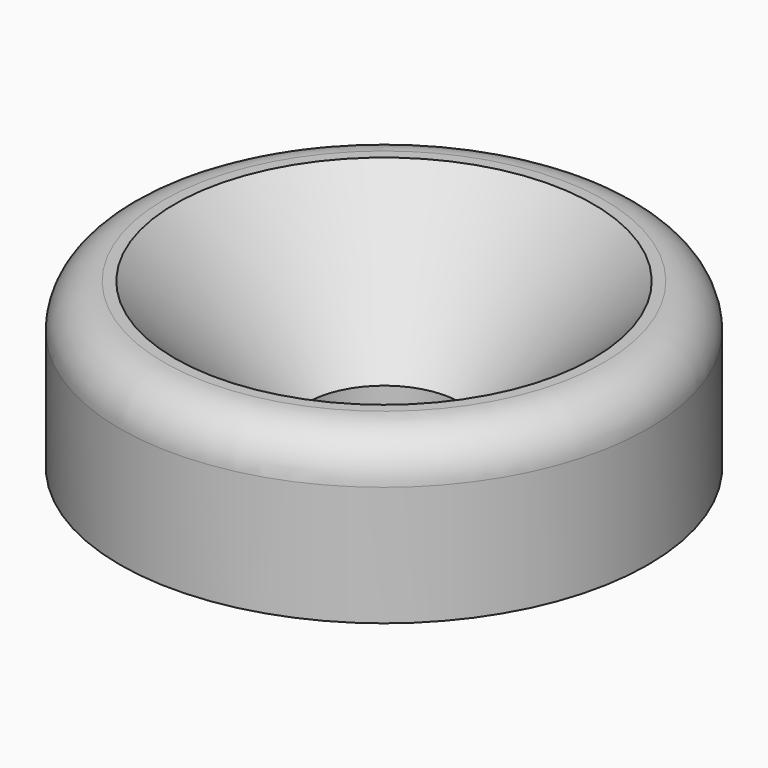
from build123d import *

# Parameters (mm, degrees)
F0_R        = 6
F0_R_2      = 4
F0_R_3      = 1.75
F1_DEPTH    = 6
F2_R        = 1
F3_SIZE     = 3
F1_FACE_R   = 6
F1_FACE_R_2 = 1.75
F4_DEPTH    = 2.28


with BuildPart() as f1:
    # F0 (on Top) → F1 (new body)
    with BuildSketch(Plane.XY):
        Circle(F0_R)
        Circle(F0_R_2, mode=Mode.SUBTRACT)
        Circle(F0_R_2)
        Circle(F0_R_3, mode=Mode.SUBTRACT)
    extrude(amount=F1_DEPTH)

    # F2
    f2_edges = [f1.edges().sort_by_distance(p)[0] for p in [
        (-6, 0, 6),
    ]]
    fillet(f2_edges, radius=F2_R)

    # F3
    f3_edges = [f1.edges().sort_by_distance(p)[0] for p in [
        (-1.75, 0, 6),
    ]]
    chamfer(f3_edges, length=F3_SIZE)

    # F1_face (on face) → F4 (cut)
    with BuildSketch(Plane(origin=(0, 0, 0), x_dir=(1, 0, 0), z_dir=(0, 0, -1))):
        Circle(F1_FACE_R)
        Circle(F1_FACE_R_2, mode=Mode.SUBTRACT)
    extrude(amount=-F4_DEPTH, mode=Mode.SUBTRACT)


solid = f1.part
